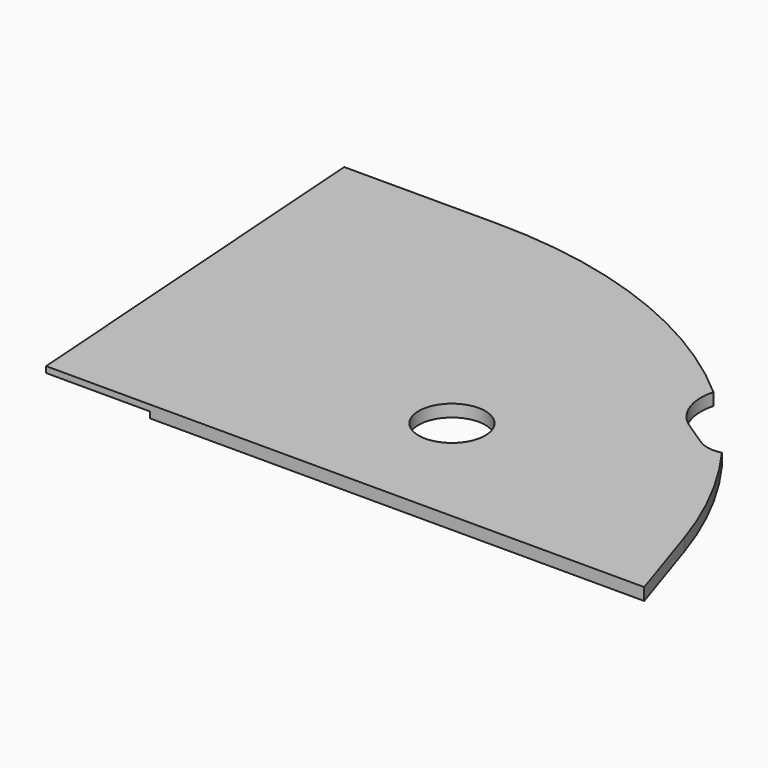
from build123d import *

# Parameters (mm, degrees)
F1_DEPTH  = 3
F3_DEPTH  = 25
F4_R      = 5
F5_R      = 11.15
F5_R_2    = 2.65
F6_DEPTH  = 25
F7_W      = 78
F7_H      = 55.5
F7_R      = 2
F8_DEPTH  = 25
F9_R      = 8.15
F10_DEPTH = 25
F12_W     = 307.7535755343
F12_H     = 117.255145081
F13_DEPTH = 25
F14_W     = 20
F14_H     = 100
F15_DEPTH = 1.5
F17_DEPTH = 1.5
F19_DEPTH = 25


with BuildPart() as f1:
    # F0 (on Top) → F1 (new body)
    with BuildSketch(Plane.XY):
        with BuildLine():
            Line((-197.8147600734, 20.7911690818), (-202.2340594865, 0))
            Line((-202.2340594865, 0), (216.0975214603, 0))
            Line((216.0975214603, 0), (209.2885731253, 20.7911690818))
            ThreePointArc((209.2885731253, 20.7911690818), (167.4870934164, 78.1154778874), (100, 100))
            Line((100, 100), (-100, 100))
            ThreePointArc((-100, 100), (-162.932039105, 77.7145961457), (-197.8147600734, 20.7911690818))
        make_face()
    extrude(amount=F1_DEPTH)

    # F2 (on face) → F3 (cut)
    with BuildSketch(Plane.XY.offset(3)):
        with BuildLine():
            ThreePointArc((1.5842979518, 0), (9.4530988092, 4.1693984068), (12.6, 12.5))
            ThreePointArc((12.6, 12.5), (12.2192388124, 15.5741182224), (11.0999678023, 18.4624420155))
            ThreePointArc((11.0999678023, 18.4624420155), (0, 25.1), (-11.0999678023, 18.4624420155))
            ThreePointArc((-11.0999678023, 18.4624420155), (-11.1999147641, 6.7274867453), (-1.5842979518, 0))
            Line((-1.5842979518, 0), (1.5842979518, 0))
        make_face()
        with BuildLine():
            ThreePointArc((11.0999678023, 18.4624420155), (12.2192388124, 15.5741182224), (12.6, 12.5))
            ThreePointArc((12.6, 12.5), (9.4530988092, 4.1693984068), (1.5842979518, 0))
            Line((1.5842979518, 0), (21.7592636698, 0))
            Line((21.7592636698, 0), (11.0999678023, 18.4624420155))
        make_face()
        with BuildLine():
            ThreePointArc((-1.5842979518, 0), (0, -0.1), (1.5842979518, 0))
            Line((1.5842979518, 0), (-1.5842979518, 0))
        make_face()
        with BuildLine():
            ThreePointArc((-1.5842979518, 0), (-11.1999147641, 6.7274867453), (-11.0999678023, 18.4624420155))
            Line((-11.0999678023, 18.4624420155), (-21.7592636698, 0))
            Line((-21.7592636698, 0), (-1.5842979518, 0))
        make_face()
    extrude(amount=-F3_DEPTH, mode=Mode.SUBTRACT)

    # F4
    f4_edges = [f1.edges().sort_by_distance(p)[0] for p in [
        (-21.759264, 0, 1.5),
        (21.759264, 0, 1.5),
    ]]
    fillet(f4_edges, radius=F4_R)

    # F5 (on face) → F6 (cut)
    with BuildSketch(Plane.XY.offset(3)):
        Polygon((-145, 38.9489291724), (-152.75, 34.4744645862), (-152.75, 25.5255354138), (-145, 21.0510708276), (-137.25, 25.5255354138), (-137.25, 34.4744645862), align=None)
        with Locations((-115, 30)):
            Circle(F5_R)
        with Locations((-115, 60)):
            Circle(F5_R_2)
        with Locations((-145, 60)):
            Circle(F5_R_2)
    extrude(amount=-F6_DEPTH, mode=Mode.SUBTRACT)

    # F7 (on face) → F8 (cut)
    with BuildSketch(Plane.XY.offset(3)):
        with Locations((0, 57.75)):
            Rectangle(F7_W, F7_H)
        with Locations((-42.6313167033, 28.25)):
            Circle(F7_R)
        with Locations((-42.6313167033, 87.25)):
            Circle(F7_R)
        with Locations((42.3686832967, 87.25)):
            Circle(F7_R)
        with Locations((42.3686832967, 28.25)):
            Circle(F7_R)
    extrude(amount=-F8_DEPTH, mode=Mode.SUBTRACT)

    # F9 (on face) → F10 (cut)
    with BuildSketch(Plane.XY.offset(3)):
        with Locations((145, 30)):
            Circle(F9_R)
    extrude(amount=-F10_DEPTH, mode=Mode.SUBTRACT)

    # F12 (on face) → F13 (cut)
    with BuildSketch(Plane.XY.offset(3)):
        with Locations((-78.8767877671, 58.6275725405)):
            Rectangle(F12_W, F12_H)
    extrude(amount=-F13_DEPTH, mode=Mode.SUBTRACT)

    # F14 (on face) → F15 (cut)
    with BuildSketch(Plane(origin=(0, 0, 0), x_dir=(1, 0, 0), z_dir=(0, 0, -1))):
        with Locations((85, -50)):
            Rectangle(F14_W, F14_H)
    extrude(amount=-F15_DEPTH, mode=Mode.SUBTRACT)

    # F16 (on face) → F17 (join)
    with BuildSketch(Plane.XY.offset(3)):
        Polygon((75, 0), (75, 100), (62.6, 100), (69.6, 0), align=None)
    extrude(amount=-F17_DEPTH)

    # F18 (on face) → F19 (cut)
    with BuildSketch(Plane.XY.offset(3)):
        with BuildLine():
            ThreePointArc((198.5084757314, 61.1607791283), (200.0253825343, 64.4319411082), (200.5454428122, 68))
            ThreePointArc((200.5454428122, 68), (182.1177116525, 79.0050898814), (181.1675222846, 57.562365727))
            ThreePointArc((181.1675222846, 57.562365727), (182.9183296915, 56.599881095), (184.8001189484, 55.9286341693))
            ThreePointArc((184.8001189484, 55.9286341693), (188.4244577932, 67.0069708263), (198.5084757314, 61.1607791283))
        make_face()
        with BuildLine():
            ThreePointArc((184.8001189484, 55.9286341693), (182.9183296915, 56.599881095), (181.1675222846, 57.562365727))
            Line((181.1675222846, 57.562365727), (186.9720950966, 53.7374194362))
            ThreePointArc((186.9720950966, 53.7374194362), (185.772214529, 54.7201342708), (184.8001189484, 55.9286341693))
        make_face()
        with BuildLine():
            ThreePointArc((198.5988474131, 60), (198.5762203605, 60.5821458635), (198.5084757314, 61.1607791283))
            ThreePointArc((198.5084757314, 61.1607791283), (192.5027588454, 56.3217152895), (184.8001189484, 55.9286341693))
            ThreePointArc((184.8001189484, 55.9286341693), (185.772214529, 54.7201342708), (186.9720950966, 53.7374194362))
            ThreePointArc((186.9720950966, 53.7374194362), (194.655486109, 53.3969460712), (198.5988474131, 60))
        make_face()
        with BuildLine():
            ThreePointArc((184.8001189484, 55.9286341693), (192.5027588454, 56.3217152895), (198.5084757314, 61.1607791283))
            ThreePointArc((198.5084757314, 61.1607791283), (188.4244577932, 67.0069708263), (184.8001189484, 55.9286341693))
        make_face()
    extrude(amount=-F19_DEPTH, mode=Mode.SUBTRACT)


solid = f1.part
